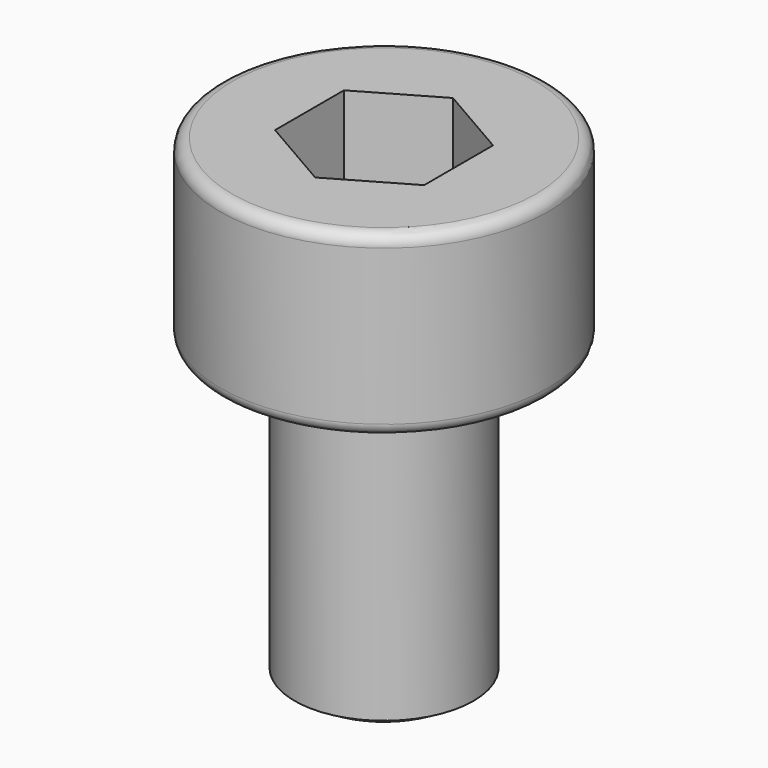
from build123d import *

# Parameters (mm, degrees)
F3_DEPTH = 2


with BuildPart() as f1:
    # F0 (on Front) → F1 (revolve)
    with BuildSketch(Plane.XZ):
        with BuildLine():
            Line((2.55, 0), (0, 0))
            Line((0, 0), (0, -8))
            Line((0, -8), (1.2, -8))
            Line((1.2, -8), (1.5, -7.826795))
            Line((1.5, -7.826795), (1.5, -3))
            Line((1.5, -3), (2.55, -3))
            ThreePointArc((2.55, -3), (2.691421, -2.941421), (2.75, -2.8))
            Line((2.75, -2.8), (2.75, -0.2))
            ThreePointArc((2.75, -0.2), (2.691421, -0.058579), (2.55, 0))
        make_face()
    revolve(axis=Axis((0, 0, -10.617692), (0, 0, -1)))

    # F2 (on face) → F3 (cut)
    with BuildSketch(Plane.XY):
        Polygon((1.25, -0.721688), (1.25, 0.721688), (0, 1.443376), (-1.25, 0.721688), (-1.25, -0.721688), (0, -1.443376), align=None)
    extrude(amount=-F3_DEPTH, mode=Mode.SUBTRACT)


solid = f1.part
